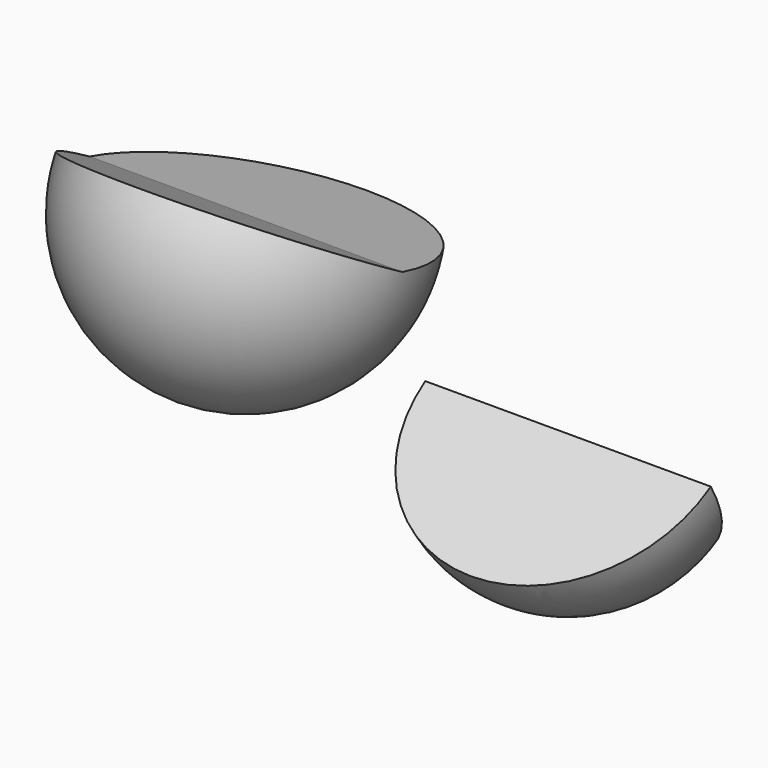
from build123d import *

# Parameters (mm, degrees)
F1_ANGLE_START = 32.1625005344
F1_ANGLE       = 87.8374994656
F2_ANGLE_BACK  = 30
F2_ANGLE       = 195


with BuildPart() as f1:
    # F0 (on Top) → F1 (revolve)
    with BuildSketch(Plane.XY, mode=Mode.PRIVATE) as f1_sk:
        with BuildLine():
            Line((37.7479307353, 0), (0, 0))
            ThreePointArc((0, 0), (18.8739653677, -18.9240987718), (37.7479307353, 0))
        make_face()
    revolve(f1_sk.sketch.rotate(Axis((18.8739653677, 0, 0), (1, 0, 0)), F1_ANGLE_START), axis=Axis((18.8739653677, 0, 0), (1, 0, 0)), revolution_arc=F1_ANGLE)


with BuildPart() as f2:
    # F0 (on Top) → F2 (revolve)
    with BuildSketch(Plane.XY, mode=Mode.PRIVATE) as f2_sk:
        with BuildLine():
            ThreePointArc((-58.421288071, 17.5723154098), (-37.7479381859, -3.1010344753), (-17.0745883008, 17.5723154098))
            Line((-17.0745883008, 17.5723154098), (-58.421288071, 17.5723154098))
        make_face()
    revolve(f2_sk.sketch.rotate(Axis((-37.7479381859, 17.5723154098, 0), (1, 0, 0)), -F2_ANGLE_BACK), axis=Axis((-37.7479381859, 17.5723154098, 0), (1, 0, 0)), revolution_arc=F2_ANGLE)


solid = Compound([f1.part, f2.part])
